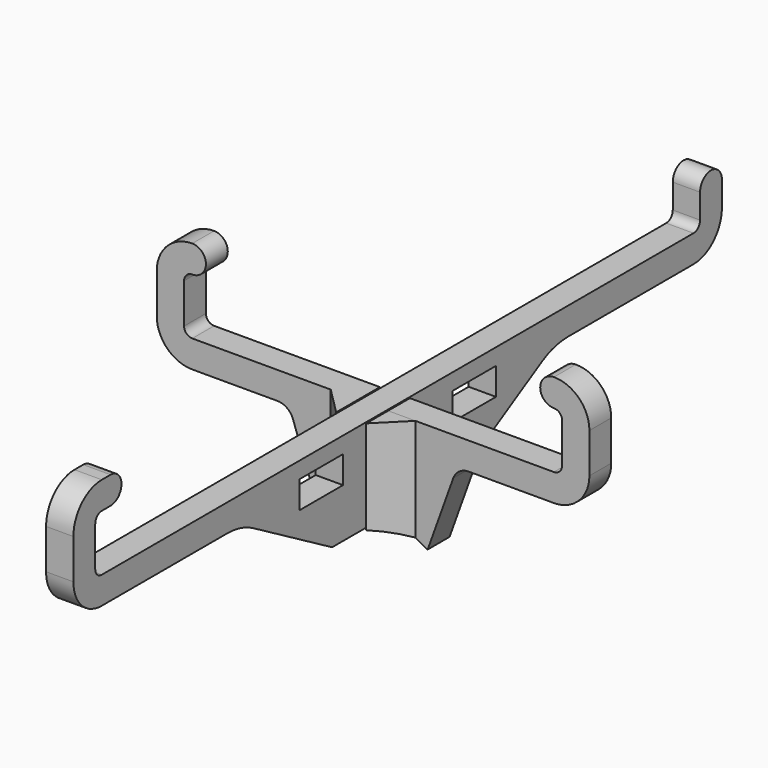
from build123d import *

# Parameters (mm, degrees)
SKETCH_W     = 10
SKETCH_H     = 5
PAD_DEPTH    = 2.5
PAD001_DEPTH = 2.5
PAD002_DEPTH = 20
POCKET_DEPTH = 10


with BuildPart() as vertical:
    # Sketch → Pad (new body, symmetric)
    with BuildSketch(Plane.YZ):
        with BuildLine():
            Line((74.2, 18.499999), (74.2, 23))
            ThreePointArc((74.2, 23), (71.7, 25.5), (69.2, 23))
            Line((69.2, 18.5), (69.2, 23))
            ThreePointArc((67.7, 17), (68.76066, 17.43934), (69.2, 18.5))
            Line((-67.7, 17), (67.7, 17))
            ThreePointArc((-69.2, 18.5), (-68.76066, 17.43934), (-67.7, 17))
            Line((-69.2, 25.8), (-69.2, 18.5))
            ThreePointArc((-67.7, 27.3), (-68.76066, 26.86066), (-69.2, 25.8))
            Line((-67.7, 27.3), (-65.7, 27.3))
            ThreePointArc((-65.7, 27.3), (-63.199999, 29.8), (-65.699999, 32.3))
            Line((-65.699999, 32.3), (-67.700001, 32.3))
            ThreePointArc((-67.700001, 32.3), (-72.296194, 30.396194), (-74.2, 25.8))
            Line((-74.2, 18.5), (-74.2, 25.8))
            ThreePointArc((-74.2, 18.5), (-72.296194, 13.903806), (-67.7, 12))
            Line((-67.7, 12), (-38.960743, 12))
            ThreePointArc((-33, 10.392302), (-35.87387, 11.591017), (-38.960743, 12))
            Line((-15, 0), (-33, 10.392302))
            Line((-15, 0), (-2.75, 0))
            Line((-2.75, 0), (-2.75, 8.7))
            Line((-2.75, 8.7), (2.75, 8.7))
            Line((2.75, 8.7), (2.75, 0))
            Line((2.75, 0), (15, 0))
            Line((15, 0), (33, 10.392302))
            ThreePointArc((38.960743, 12), (35.87387, 11.591017), (33, 10.392302))
            Line((38.960743, 12), (67.700003, 12))
            ThreePointArc((67.700003, 12), (72.296195, 13.903807), (74.2, 18.499999))
        make_face()
        with Locations((-17.5, 11.5)):
            Rectangle(SKETCH_W, SKETCH_H, mode=Mode.SUBTRACT)
        with Locations((17.5, 11.5)):
            Rectangle(SKETCH_W, SKETCH_H, mode=Mode.SUBTRACT)
    extrude(amount=PAD_DEPTH, both=True)


with BuildPart() as fusion:
    # Sketch001 → Pad001 (new body, symmetric)
    with BuildSketch(Plane.XZ):
        with BuildLine():
            Line((17.5, 11.999988), (33.100007, 12))
            ThreePointArc((33.100007, 12), (37.696196, 13.903808), (39.6, 18.499998))
            Line((39.6, 25.799979), (39.6, 18.499998))
            ThreePointArc((39.6, 25.799979), (37.696194, 30.396171), (33.100002, 32.299977))
            ThreePointArc((33.100002, 32.299977), (30.600002, 29.799977), (33.100002, 27.299977))
            ThreePointArc((34.6, 25.799979), (34.16066, 26.860637), (33.100002, 27.299977))
            Line((34.6, 18.499998), (34.6, 25.799979))
            ThreePointArc((33.100002, 17), (34.16066, 17.43934), (34.6, 18.499998))
            Line((2.75, 17), (33.100002, 17))
            Line((2.75, 8.3), (2.75, 17))
            Line((-2.75, 8.3), (2.75, 8.3))
            Line((-2.75, 16.999988), (-2.75, 8.3))
            Line((-33.1, 16.999988), (-2.75, 16.999988))
            ThreePointArc((-34.6, 18.499998), (-34.160664, 17.439331), (-33.1, 16.999988))
            Line((-34.6, 18.499998), (-34.6, 25.799979))
            ThreePointArc((-33.100002, 27.299988), (-34.160664, 26.860644), (-34.6, 25.799979))
            ThreePointArc((-33.100002, 27.299988), (-30.600002, 29.799988), (-33.100001, 32.299988))
            ThreePointArc((-33.100001, 32.299988), (-37.696198, 30.396178), (-39.6, 25.799978))
            Line((-39.6, 25.799978), (-39.6, 18.499999))
            ThreePointArc((-39.6, 18.499999), (-37.696198, 13.903798), (-33.100002, 11.999988))
            Line((-33.100002, 11.999988), (-17.5, 11.999988))
            ThreePointArc((-14.676752, 10.014519), (-15.774253, 11.453923), (-17.5, 11.999988))
            Line((-14.676752, 10.014519), (-10, -3))
            Line((-10, -3), (10, -3))
            Line((10, -3), (14.676755, 10.014519))
            ThreePointArc((17.5, 11.999988), (15.774254, 11.453922), (14.676755, 10.014519))
        make_face()
    extrude(amount=PAD001_DEPTH, both=True)

    # Sketch002 → Pad002 (new body)
    with BuildSketch(Plane(origin=(0, 0, 16.999988), x_dir=(-1, 0, 0), z_dir=(0, 0, 1))):
        Polygon((-7.75, 2.5), (-2.75, 7.5), (-2.75, 2.5), align=None)
        Polygon((2.75, 7.5), (2.75, 2.5), (7.75, 2.5), align=None)
    extrude(amount=-PAD002_DEPTH)

    # Sketch003 → Pocket (cut)
    with BuildSketch(Plane(origin=(0, 2.5, 0), x_dir=(1, 0, 0), z_dir=(0, 1, 0))):
        with BuildLine():
            ThreePointArc((-10, 3.138593), (0, 0), (10, 3.138593))
            Line((-10, 3.138593), (10, 3.138593))
        make_face()
    extrude(amount=-POCKET_DEPTH, mode=Mode.SUBTRACT)

    # Fusion: union Vertical
    add(vertical.part)


solid = fusion.part
